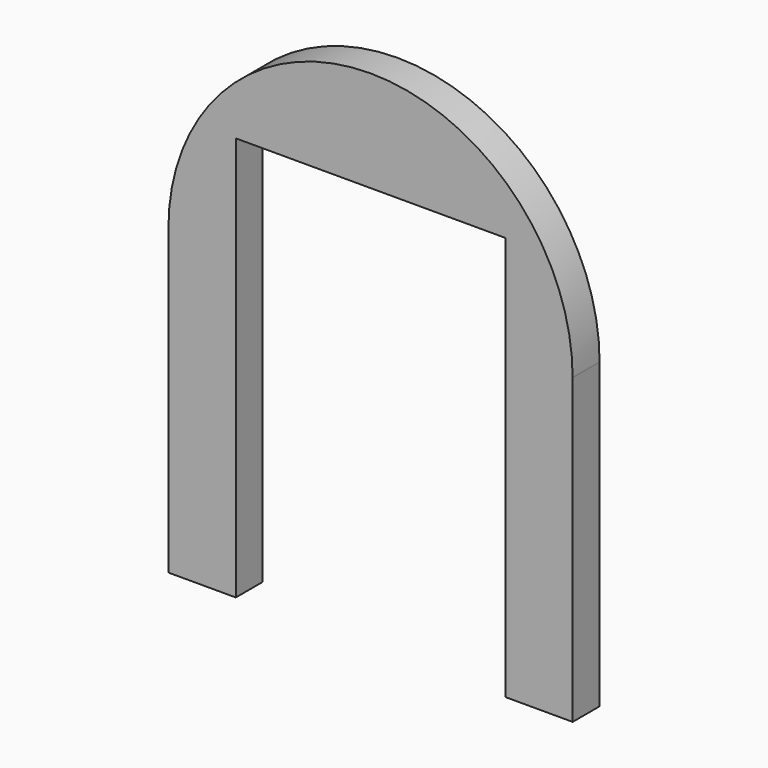
from build123d import *

# Parameters (mm, degrees)
F1_DEPTH = 152.4
F2_W     = 1219.2
F2_H     = 1828.8
F3_DEPTH = 25.4
F4_DEPTH = 152.401


with BuildPart() as f1:
    # F0 (on Front) → F1 (new body)
    with BuildSketch(Plane.XZ):
        with BuildLine():
            Line((-962.472789, 62.231022), (-962.472789, -1309.368978))
            Line((-962.472789, -1309.368978), (866.327211, -1309.368978))
            Line((866.327211, -1309.368978), (866.327211, 62.231022))
            ThreePointArc((866.327211, 62.231022), (-48.072789, 976.631022), (-962.472789, 62.231022))
        make_face()
    extrude(amount=F1_DEPTH)

    # F2 (on face) → F3 (cut)
    with BuildSketch(Plane.XZ.offset(152.4)):
        with Locations((-48.072789, -394.968978)):
            Rectangle(F2_W, F2_H)
    extrude(amount=-F3_DEPTH, mode=Mode.SUBTRACT)

    # F2 (on face) → F4 (cut, through all)
    with BuildSketch(Plane.XZ.offset(152.4)):
        with Locations((-48.072789, -394.968978)):
            Rectangle(F2_W, F2_H)
    extrude(amount=-F4_DEPTH, mode=Mode.SUBTRACT)


solid = f1.part
